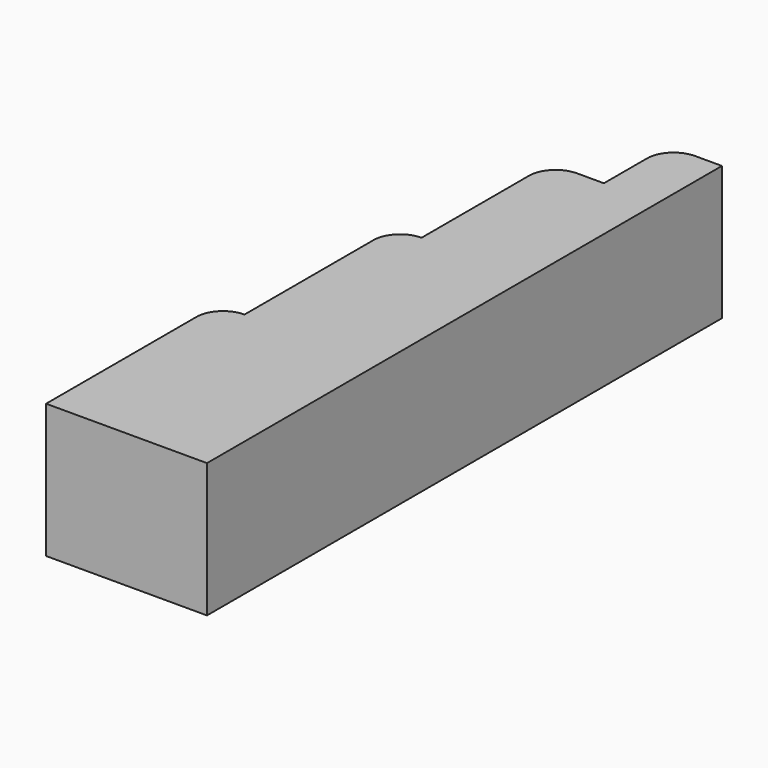
from build123d import *

# Parameters (mm, degrees)
F1_DEPTH = 25


with BuildPart() as f1:
    # F0 (on Top) → F1 (new body)
    with BuildSketch(Plane.XY):
        with BuildLine():
            Line((24.402173, -43.12509), (34.402173, -43.12509))
            Line((34.402173, -43.12509), (34.402173, 76.87491))
            Line((34.402173, 76.87491), (29.402173, 76.87491))
            ThreePointArc((29.402173, 76.87491), (25.866639, 75.410444), (24.402173, 71.87491))
            Line((24.402173, 71.87491), (24.402173, 61.87491))
            Line((24.402173, 61.87491), (19.402173, 61.87491))
            ThreePointArc((19.402173, 61.87491), (15.866639, 60.410444), (14.402173, 56.87491))
            Line((14.402173, 56.87491), (14.402173, 31.87491))
            ThreePointArc((14.402173, 31.87491), (10.866639, 30.410444), (9.402173, 26.87491))
            Line((9.402173, 26.87491), (9.402173, -3.12509))
            ThreePointArc((9.402173, -3.12509), (5.866639, -4.589556), (4.402173, -8.12509))
            Line((4.402173, -8.12509), (4.402173, -43.12509))
            Line((4.402173, -43.12509), (9.402173, -43.12509))
            Line((9.402173, -43.12509), (14.402173, -43.12509))
            Line((14.402173, -43.12509), (24.402173, -43.12509))
        make_face()
    extrude(amount=F1_DEPTH)


solid = f1.part
